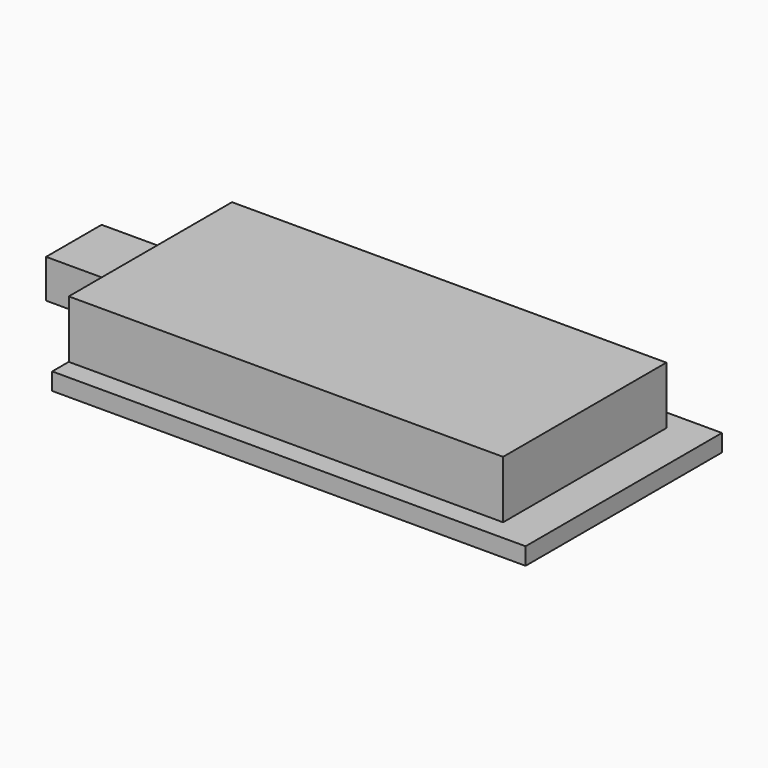
from build123d import *

# Parameters (mm, degrees)
F0_W     = 34.33
F0_H     = 17.8
F1_DEPTH = 1.25
F2_W     = 31.5
F2_H     = 14.8
F3_DEPTH = 4.18
F4_W     = 7.7
F4_H     = 3
F5_DEPTH = 2.36
F6_W     = 5.033333
F6_H     = 2.8
F7_DEPTH = 6.33


with BuildPart() as f1:
    # F0 (on Top) → F1 (new body)
    with BuildSketch(Plane.XY):
        with Locations((17.165, 8.9)):
            Rectangle(F0_W, F0_H)
    extrude(amount=F1_DEPTH)

    # F2 (on face) → F3 (join)
    with BuildSketch(Plane.XY.offset(1.25)):
        with Locations((15.75, 8.9)):
            Rectangle(F2_W, F2_H)
    extrude(amount=F3_DEPTH)

    # F4 (on face) → F5 (join)
    with BuildSketch(Plane(origin=(0, 0, 0), x_dir=(0, -1, 0), z_dir=(-1, 0, 0))):
        with Locations((-11.59, 0.15)):
            Rectangle(F4_W, F4_H)
    extrude(amount=F5_DEPTH)

    # F6 (on face) → F7 (join)
    with BuildSketch(Plane(origin=(-2.36, 0, 0), x_dir=(0, -1, 0), z_dir=(-1, 0, 0))):
        with Locations((-12.823334, 0.15)):
            Rectangle(F6_W, F6_H)
    extrude(amount=F7_DEPTH)


solid = f1.part
